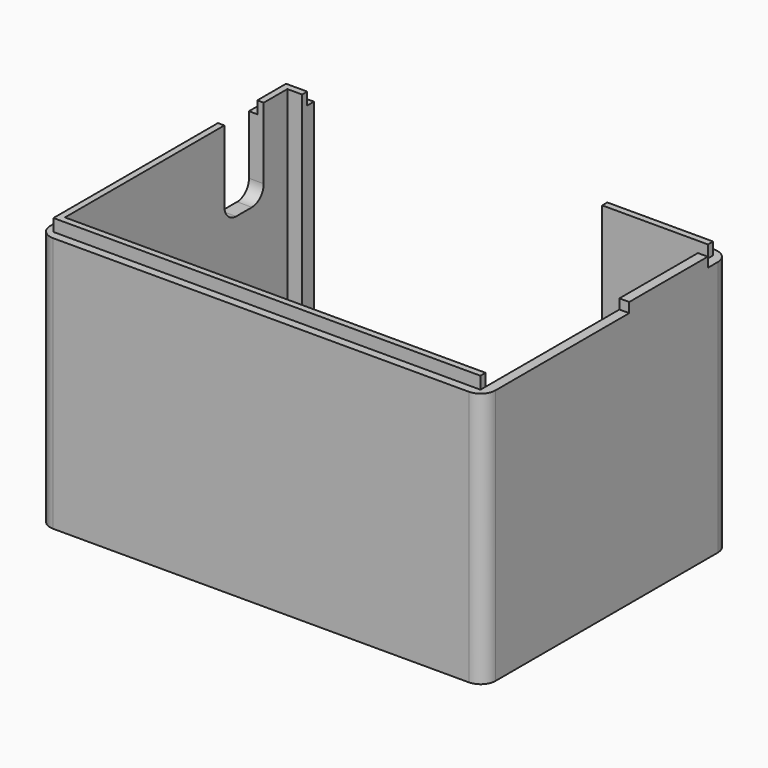
from build123d import *

# Parameters (mm, degrees)
SKETCH_W        = 90.5
SKETCH_H        = 62.5
PAD_DEPTH       = 52
SKETCH001_W     = 85.5
SKETCH001_H     = 56.5
POCKET_DEPTH    = 50
SKETCH002_W     = 61
SKETCH002_H     = 3
POCKET001_DEPTH = 52
SKETCH003_W     = 3
SKETCH003_H     = 1.3
SKETCH003_W_2   = 1.3
SKETCH003_H_2   = 57.8
SKETCH003_W_3   = 86.8
SKETCH003_W_4   = 21.5
PAD001_DEPTH    = 2.5
SKETCH004_W     = 2
SKETCH004_H     = 19.95
PAD002_DEPTH    = 2
PAD003_DEPTH    = 2
FILLET_R        = 3
SKETCH005_W     = 10
SKETCH005_H     = 18
POCKET002_DEPTH = 5
FILLET001_R     = 3
SKETCH006_R     = 1.85
POCKET003_DEPTH = 5


with BuildPart() as part:
    # Sketch → Pad (new body)
    with BuildSketch(Plane.XY):
        Rectangle(SKETCH_W, SKETCH_H)
    extrude(amount=PAD_DEPTH)

    # Sketch001 (on Face6 of Pad) → Pocket (cut)
    with BuildSketch(Plane.XY.offset(52)):
        with Locations((0.5, 0)):
            Rectangle(SKETCH001_W, SKETCH001_H)
    extrude(amount=-POCKET_DEPTH, mode=Mode.SUBTRACT)

    # Sketch002 (on Face5 of Pocket) → Pocket001 (cut)
    with BuildSketch(Plane.XY.offset(52)):
        with Locations((-8.75, 29.75)):
            Rectangle(SKETCH002_W, SKETCH002_H)
    extrude(amount=-POCKET001_DEPTH, mode=Mode.SUBTRACT)

    # Sketch003 (on Face4 of Pocket001) → Pad001 (join)
    with BuildSketch(Plane.XY.offset(52)):
        with Locations((-40.75, 28.9)):
            Rectangle(SKETCH003_W, SKETCH003_H)
        with Locations((-42.9, 0.65)):
            Rectangle(SKETCH003_W_2, SKETCH003_H_2)
        with Locations((-0.15, -28.9)):
            Rectangle(SKETCH003_W_3, SKETCH003_H)
        with Locations((32.5, 28.9)):
            Rectangle(SKETCH003_W_4, SKETCH003_H)
    extrude(amount=PAD001_DEPTH)

    # Sketch004 (on Face4 of Pad001) → Pad002 (join)
    with BuildSketch(Plane.XY.offset(52)):
        with Locations((44.25, 15.725)):
            Rectangle(SKETCH004_W, SKETCH004_H)
    extrude(amount=PAD002_DEPTH)

    # Sketch004 (on Face4 of Pad001) → Pad003 (join)
    with BuildSketch(Plane.XY.offset(52)):
        with Locations((44.25, 15.725)):
            Rectangle(SKETCH004_W, SKETCH004_H)
    extrude(amount=PAD003_DEPTH)

    # Fillet
    fillet_edges = [part.edges().sort_by_distance(p)[0] for p in [
        (45.25, 31.25, 26),
        (45.25, -31.25, 26),
        (-45.25, 31.25, 26),
        (-45.25, -31.25, 26),
    ]]
    fillet(fillet_edges, radius=FILLET_R)

    # Sketch005 (on Face6 of Fillet) → Pocket002 (cut)
    with BuildSketch(Plane(origin=(-45.25, 0, 0), x_dir=(0, -1, 0), z_dir=(-1, 0, 0))):
        with Locations((-17.25, 46)):
            Rectangle(SKETCH005_W, SKETCH005_H)
    extrude(amount=-POCKET002_DEPTH, mode=Mode.SUBTRACT)

    # Fillet001
    fillet001_edges = [part.edges().sort_by_distance(p)[0] for p in [
        (-43.75, 22.25, 37),
        (-43.75, 12.25, 37),
    ]]
    fillet(fillet001_edges, radius=FILLET001_R)

    # Sketch006 (on Face1 of Fillet001) → Pocket003 (cut)
    with BuildSketch(Plane(origin=(-45.25, 0, 0), x_dir=(0, -1, 0), z_dir=(-1, 0, 0))):
        with Locations((-14, 12)):
            Circle(SKETCH006_R)
        with Locations((0, 12)):
            Circle(SKETCH006_R)
        with Locations((14, 12)):
            Circle(SKETCH006_R)
    extrude(amount=-POCKET003_DEPTH, mode=Mode.SUBTRACT)


solid = part.part
